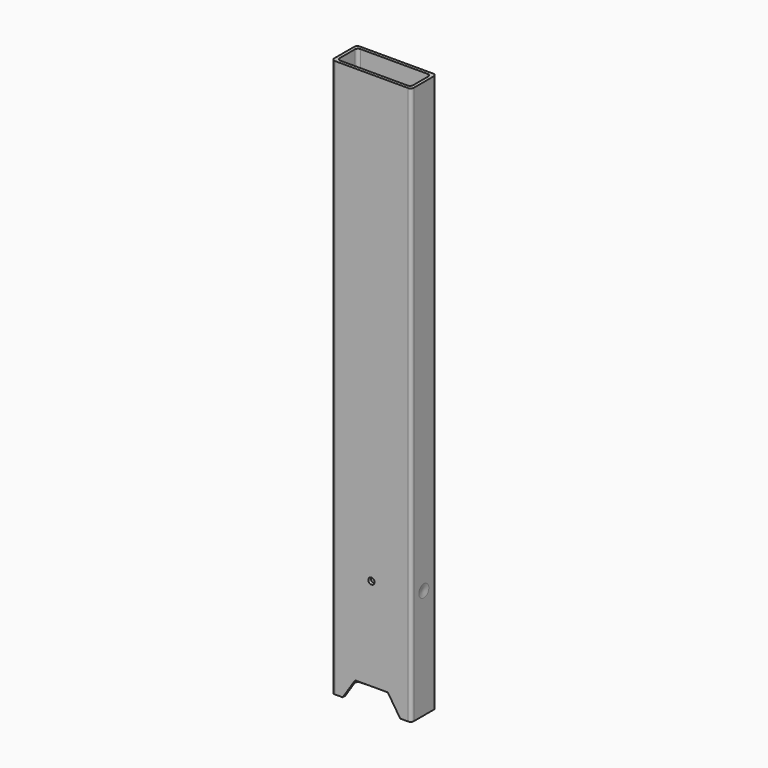
from build123d import *

# Parameters (mm, degrees)
F0_W     = 11.7
F0_H     = 4
F1_DEPTH = 88.9
F3_DEPTH = 25
F4_R     = 0.5
F5_DEPTH = 25
F6_R     = 1
F7_DEPTH = 12.701
F13_R    = 0.5


with BuildPart() as f1:
    # F0 (on Top) → F1 (new body)
    with BuildSketch(Plane.XY):
        with BuildLine():
            Line((12.2, 0), (0.5, 0))
            ThreePointArc((0.5, 0), (0.1464466094, -0.1464466094), (0, -0.5))
            Line((0, -0.5), (0, -4.5))
            ThreePointArc((0, -4.5), (0.1464466094, -4.8535533906), (0.5, -5))
            Line((0.5, -5), (12.2, -5))
            ThreePointArc((12.2, -5), (12.5535533906, -4.8535533906), (12.7, -4.5))
            Line((12.7, -4.5), (12.7, -0.5))
            ThreePointArc((12.7, -0.5), (12.5535533906, -0.1464466094), (12.2, 0))
        make_face()
        with Locations((6.35, -2.5)):
            Rectangle(F0_W, F0_H, mode=Mode.SUBTRACT)
    extrude(amount=F1_DEPTH)

    # F2 (on face) → F3 (cut)
    with BuildSketch(Plane.XZ.offset(5)):
        Polygon((3.7468838188, 3.0342543032), (1.7641486272, 0), (10.9358513728, 0), (8.9531161812, 3.0342543032), (6.35, 3.0342543032), align=None)
    extrude(amount=-F3_DEPTH, mode=Mode.SUBTRACT)

    # F4 (on face) → F5 (cut)
    with BuildSketch(Plane(origin=(0, 0, 0), x_dir=(-1, 0, 0), z_dir=(0, 1, 0))):
        with Locations((-6.35, 17.8078599274)):
            Circle(F4_R)
    extrude(amount=-F5_DEPTH, mode=Mode.SUBTRACT)

    # F6 (on face) → F7 (cut, through all)
    with BuildSketch(Plane.YZ.offset(12.7)):
        with Locations((-2.5, 17.5)):
            Circle(F6_R)
    extrude(amount=-F7_DEPTH, mode=Mode.SUBTRACT)

    # F9 (on offset) → F10 (revolve)
    with BuildSketch(Plane.XY.offset(17.5)):
        Polygon((0.5120678688, -1.5), (0, -1.5), (0.1683332375, -2.5), (0.6804011064, -2.5), align=None)
    revolve(axis=Axis((0.6804011064, -2.5, 17.5), (1, 0, 0)))

    # F12: F1 across plane


with BuildPart() as f1_1:
    add(f1.part)
    add(f1.part.mirror(Plane(origin=(6.35, -2.5, 44.6902153566), x_dir=(0, 1, 0), z_dir=(1, 0, 0))))

    # F13
    f13_edges = [f1_1.edges().sort_by_distance(p)[0] for p in [
        (12.2, -4.5, 44.45),
        (0.5, -4.5, 44.45),
        (0.5, -0.5, 44.45),
        (12.2, -0.5, 44.45),
    ]]
    fillet(f13_edges, radius=F13_R)


solid = f1_1.part
